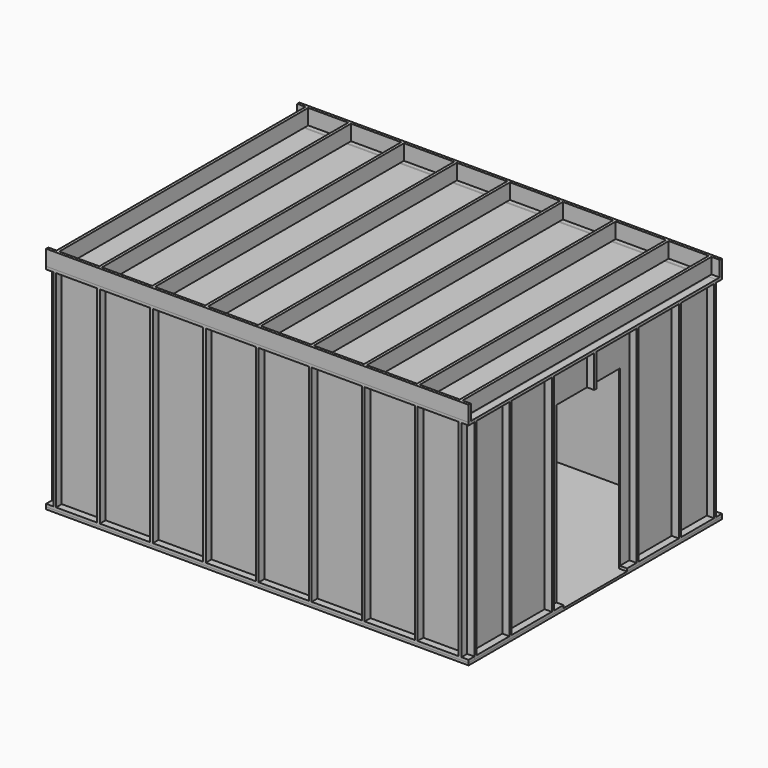
from build123d import *

# Parameters (mm, degrees)
F0_W      = 2349.5
F0_H      = 1739.9
F0_W_2    = 2336.8
F0_H_2    = 1727.2
F1_DEPTH  = 1219.2
F2_W      = 15.875
F2_H      = 1187.45
F3_DEPTH  = 41.275
F5_W      = 15.875
F5_H      = 1187.45
F6_DEPTH  = 41.275
F8_W      = 2336.8
F8_H      = 1727.2
F9_DEPTH  = 6.35
F10_W     = 15.875
F10_H     = 1790.7
F10_H_2   = 1765.3
F10_H_3   = 25.4
F11_DEPTH = 88.9
F12_W     = 2432.05
F12_H     = 1822.45
F13_DEPTH = 12.7
F14_W     = 457.2
F14_H     = 1016
F15_DEPTH = 76.2


with BuildPart() as f1:
    # F0 (on Top) → F1 (new body)
    with BuildSketch(Plane.XY):
        Rectangle(F0_W, F0_H)
        Rectangle(F0_W_2, F0_H_2, mode=Mode.SUBTRACT)
    extrude(amount=F1_DEPTH)


with BuildPart() as f3:
    # F2 (on face) → F3 (new body)
    with BuildSketch(Plane.XZ.offset(869.95)):
        Polygon((-1216.025, 15.875), (-1216.025, 0), (1216.025, 0), (1216.025, 15.875), (1174.75, 15.875), (1158.875, 15.875), (922.3375, 15.875), (906.4625, 15.875), (617.5375, 15.875), (601.6625, 15.875), (312.7375, 15.875), (296.8625, 15.875), (7.9375, 15.875), (-7.9375, 15.875), (-296.8625, 15.875), (-312.7375, 15.875), (-601.6625, 15.875), (-617.5375, 15.875), (-906.4625, 15.875), (-922.3375, 15.875), (-1158.875, 15.875), (-1174.75, 15.875), align=None)
        with Locations((-1166.8125, 609.6)):
            Rectangle(F2_W, F2_H)
        with Locations((1166.8125, 609.6)):
            Rectangle(F2_W, F2_H)
        Polygon((-1216.025, 1203.325), (-1174.75, 1203.325), (-1158.875, 1203.325), (-922.3375, 1203.325), (-906.4625, 1203.325), (-617.5375, 1203.325), (-601.6625, 1203.325), (-312.7375, 1203.325), (-296.8625, 1203.325), (-7.9375, 1203.325), (7.9375, 1203.325), (296.8625, 1203.325), (312.7375, 1203.325), (601.6625, 1203.325), (617.5375, 1203.325), (906.4625, 1203.325), (922.3375, 1203.325), (1158.875, 1203.325), (1174.75, 1203.325), (1216.025, 1203.325), (1216.025, 1219.2), (-1216.025, 1219.2), align=None)
        with Locations((-914.4, 609.6)):
            Rectangle(F2_W, F2_H)
        with Locations((-609.6, 609.6)):
            Rectangle(F2_W, F2_H)
        with Locations((-304.8, 609.6)):
            Rectangle(F2_W, F2_H)
        with Locations((0, 609.6)):
            Rectangle(F2_W, F2_H)
        with Locations((304.8, 609.6)):
            Rectangle(F2_W, F2_H)
        with Locations((609.6, 609.6)):
            Rectangle(F2_W, F2_H)
        with Locations((914.4, 609.6)):
            Rectangle(F2_W, F2_H)
    extrude(amount=F3_DEPTH)


with BuildPart() as f4_1:
    # F4: instance of F3
    add(f3.part.mirror(Plane.XZ))


with BuildPart() as f6:
    # F5 (on face) → F6 (new body)
    with BuildSketch(Plane.YZ.offset(1174.75)):
        Polygon((-869.95, 15.875), (-869.95, 0), (869.95, 0), (869.95, 15.875), (854.075, 15.875), (617.5375, 15.875), (601.6625, 15.875), (312.7375, 15.875), (296.8625, 15.875), (7.9375, 15.875), (-7.9375, 15.875), (-296.8625, 15.875), (-312.7375, 15.875), (-601.6625, 15.875), (-617.5375, 15.875), (-854.075, 15.875), align=None)
        with Locations((-862.0125, 609.6)):
            Rectangle(F5_W, F5_H)
        with Locations((862.0125, 609.6)):
            Rectangle(F5_W, F5_H)
        Polygon((-869.95, 1219.2), (-869.95, 1203.325), (-854.075, 1203.325), (-617.5375, 1203.325), (-601.6625, 1203.325), (-312.7375, 1203.325), (-296.8625, 1203.325), (-7.9375, 1203.325), (7.9375, 1203.325), (296.8625, 1203.325), (312.7375, 1203.325), (601.6625, 1203.325), (617.5375, 1203.325), (854.075, 1203.325), (869.95, 1203.325), (869.95, 1219.2), align=None)
        with Locations((-609.6, 609.6)):
            Rectangle(F5_W, F5_H)
        with Locations((-304.8, 609.6)):
            Rectangle(F5_W, F5_H)
        with Locations((0, 609.6)):
            Rectangle(F5_W, F5_H)
        with Locations((304.8, 609.6)):
            Rectangle(F5_W, F5_H)
        with Locations((609.6, 609.6)):
            Rectangle(F5_W, F5_H)
    extrude(amount=F6_DEPTH)


with BuildPart() as f7_1:
    # F7: instance of F6
    add(f6.part.mirror(Plane.YZ))


with BuildPart() as f9:
    # F8 (on face) → F9 (new body)
    with BuildSketch(Plane.XY.offset(1219.2)):
        Rectangle(F8_W, F8_H)
    extrude(amount=-F9_DEPTH)


with BuildPart() as f11:
    # F10 (on face) → F11 (new body)
    with BuildSketch(Plane.XY.offset(1219.2)):
        Polygon((1216.025, 911.225), (-1216.025, 911.225), (-1216.025, 895.35), (-1168.4, 895.35), (-1152.525, 895.35), (-922.3375, 895.35), (-906.4625, 895.35), (-617.5375, 895.35), (-601.6625, 895.35), (-312.7375, 895.35), (-296.8625, 895.35), (-7.9375, 895.35), (7.9375, 895.35), (296.8625, 895.35), (312.7375, 895.35), (601.6625, 895.35), (617.5375, 895.35), (906.4625, 895.35), (922.3375, 895.35), (1152.525, 895.35), (1168.4, 895.35), (1216.025, 895.35), align=None)
        with Locations((-1160.4625, 0)):
            Rectangle(F10_W, F10_H)
        with Locations((1160.4625, 0)):
            Rectangle(F10_W, F10_H)
        Polygon((-1152.525, -895.35), (-1168.4, -895.35), (-1216.025, -895.35), (-1216.025, -911.225), (1216.025, -911.225), (1216.025, -895.35), (1168.4, -895.35), (1152.525, -895.35), (922.3375, -895.35), (906.4625, -895.35), (617.5375, -895.35), (601.6625, -895.35), (312.7375, -895.35), (296.8625, -895.35), (7.9375, -895.35), (-7.9375, -895.35), (-296.8625, -895.35), (-312.7375, -895.35), (-601.6625, -895.35), (-617.5375, -895.35), (-906.4625, -895.35), (-922.3375, -895.35), align=None)
        with Locations((-914.4, 12.7)):
            Rectangle(F10_W, F10_H_2)
        with Locations((-609.6, 12.7)):
            Rectangle(F10_W, F10_H_2)
        with Locations((-304.8, 12.7)):
            Rectangle(F10_W, F10_H_2)
        with Locations((0, 12.7)):
            Rectangle(F10_W, F10_H_2)
        with Locations((304.8, 12.7)):
            Rectangle(F10_W, F10_H_2)
        with Locations((609.6, 12.7)):
            Rectangle(F10_W, F10_H_2)
        with Locations((914.4, 12.7)):
            Rectangle(F10_W, F10_H_2)
        with Locations((914.4, -882.65)):
            Rectangle(F10_W, F10_H_3)
        with Locations((609.6, -882.65)):
            Rectangle(F10_W, F10_H_3)
        with Locations((304.8, -882.65)):
            Rectangle(F10_W, F10_H_3)
        with Locations((0, -882.65)):
            Rectangle(F10_W, F10_H_3)
        with Locations((-304.8, -882.65)):
            Rectangle(F10_W, F10_H_3)
        with Locations((-609.6, -882.65)):
            Rectangle(F10_W, F10_H_3)
        with Locations((-914.4, -882.65)):
            Rectangle(F10_W, F10_H_3)
    extrude(amount=F11_DEPTH)


with BuildPart() as f13:
    # F12 (on face) → F13 (new body)
    with BuildSketch(Plane(origin=(0, 0, 0), x_dir=(1, 0, 0), z_dir=(0, 0, -1))):
        Rectangle(F12_W, F12_H)
    extrude(amount=F13_DEPTH)


with BuildPart() as f15_tool:
    # F14 (on face) → F15 (new body)
    with BuildSketch(Plane.YZ.offset(1216.025)):
        with Locations((0, 508)):
            Rectangle(F14_W, F14_H)
    extrude(amount=-F15_DEPTH)


with BuildPart() as f1_1:
    add(f1.part)

    # F15: cut by f15_tool
    add(f15_tool.part, mode=Mode.SUBTRACT)


with BuildPart() as f6_1:
    add(f6.part)

    # F15: cut by f15_tool
    add(f15_tool.part, mode=Mode.SUBTRACT)


solid = Compound([f3.part, f4_1.part, f7_1.part, f9.part, f11.part, f13.part, f1_1.part, f6_1.part])
